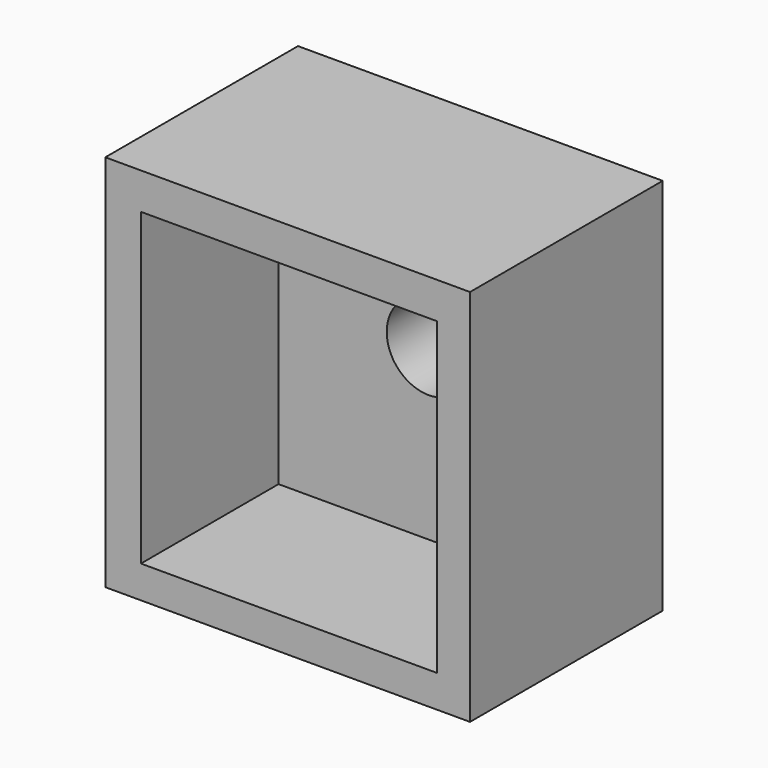
from build123d import *

# Parameters (mm, degrees)
F1_W     = 53
F1_H     = 55
F1_W_2   = 43
F1_H_2   = 45
F2_DEPTH = 35
F1_R     = 6.116576
F3_DEPTH = 10


with BuildPart() as f2:
    # F1 (on face) → F2 (new body)
    with BuildSketch(Plane.XZ):
        with Locations((-19.479784, 2.733284)):
            Rectangle(F1_W, F1_H)
        with Locations((-19.305006, 2.440175)):
            Rectangle(F1_W_2, F1_H_2, mode=Mode.SUBTRACT)
    extrude(amount=F2_DEPTH)

    # F1 (on face) → F3 (join)
    with BuildSketch(Plane.XZ):
        with Locations((-19.305006, 2.440175)):
            Rectangle(F1_W_2, F1_H_2)
        with Locations((-18.968696, 4.535152)):
            Circle(F1_R, mode=Mode.SUBTRACT)
    extrude(amount=F3_DEPTH)


solid = f2.part
